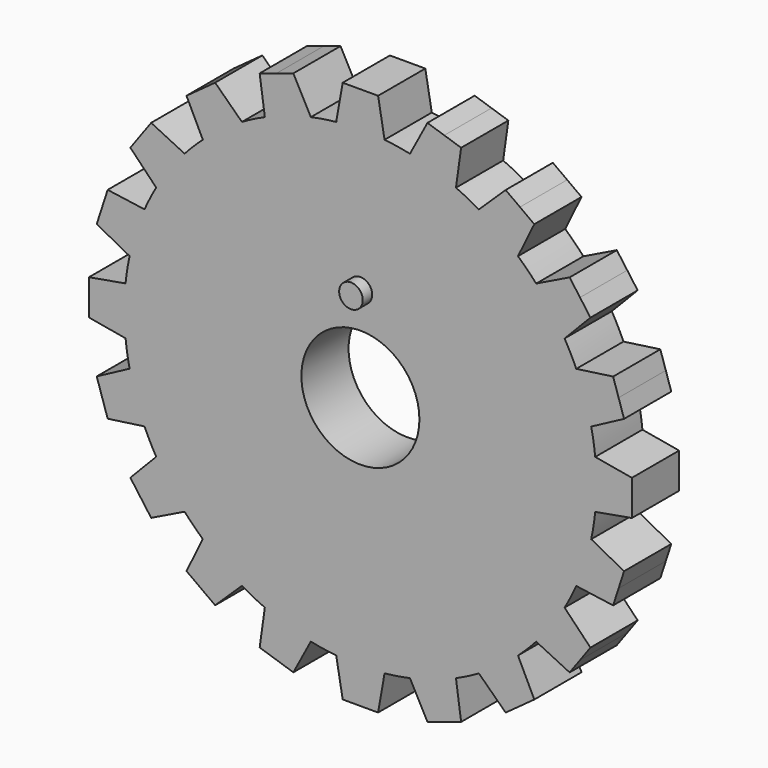
from build123d import *

# Parameters (mm, degrees)
F0_R     = 5
F1_DEPTH = 5
F2_R     = 1
F3_DEPTH = 1


with BuildPart() as f1:
    # F0 (on Front) → F1 (new body)
    with BuildSketch(Plane.XZ):
        with BuildLine():
            ThreePointArc((19.894917, -2.04751), (19.973712, -1.025102), (20, 0))
            ThreePointArc((20, 0), (19.973712, 1.025102), (19.894917, 2.04751))
            ThreePointArc((19.894917, 2.04751), (19.753767, 3.128689), (19.553905, 4.20057))
            ThreePointArc((19.553905, 4.20057), (19.02113, 6.18034), (18.288475, 8.095165))
            ThreePointArc((18.288475, 8.095165), (17.82013, 9.07981), (17.298822, 10.037468))
            ThreePointArc((17.298822, 10.037468), (16.18034, 11.755705), (14.891829, 13.350409))
            ThreePointArc((14.891829, 13.350409), (14.142136, 14.142136), (13.350409, 14.891829))
            ThreePointArc((13.350409, 14.891829), (11.755705, 16.18034), (10.037468, 17.298822))
            ThreePointArc((10.037468, 17.298822), (9.07981, 17.82013), (8.095165, 18.288475))
            ThreePointArc((8.095165, 18.288475), (6.18034, 19.02113), (4.20057, 19.553905))
            ThreePointArc((4.20057, 19.553905), (3.128689, 19.753767), (2.04751, 19.894917))
            ThreePointArc((2.04751, 19.894917), (0, 20), (-2.04751, 19.894917))
            ThreePointArc((-2.04751, 19.894917), (-3.128689, 19.753767), (-4.20057, 19.553905))
            ThreePointArc((-4.20057, 19.553905), (-6.18034, 19.02113), (-8.095165, 18.288475))
            ThreePointArc((-8.095165, 18.288475), (-9.07981, 17.82013), (-10.037468, 17.298822))
            ThreePointArc((-10.037468, 17.298822), (-11.755705, 16.18034), (-13.350409, 14.891829))
            ThreePointArc((-13.350409, 14.891829), (-14.142136, 14.142136), (-14.891829, 13.350409))
            ThreePointArc((-14.891829, 13.350409), (-16.18034, 11.755705), (-17.298822, 10.037468))
            ThreePointArc((-17.298822, 10.037468), (-17.82013, 9.07981), (-18.288475, 8.095165))
            ThreePointArc((-18.288475, 8.095165), (-19.02113, 6.18034), (-19.553905, 4.20057))
            ThreePointArc((-19.553905, 4.20057), (-19.753767, 3.128689), (-19.894917, 2.04751))
            ThreePointArc((-19.894917, 2.04751), (-20, 0), (-19.894917, -2.04751))
            ThreePointArc((-19.894917, -2.04751), (-19.753767, -3.128689), (-19.553905, -4.20057))
            ThreePointArc((-19.553905, -4.20057), (-19.02113, -6.18034), (-18.288475, -8.095165))
            ThreePointArc((-18.288475, -8.095165), (-17.82013, -9.07981), (-17.298822, -10.037468))
            ThreePointArc((-17.298822, -10.037468), (-16.18034, -11.755705), (-14.891829, -13.350409))
            ThreePointArc((-14.891829, -13.350409), (-14.142136, -14.142136), (-13.350409, -14.891829))
            ThreePointArc((-13.350409, -14.891829), (-11.755705, -16.18034), (-10.037468, -17.298822))
            ThreePointArc((-10.037468, -17.298822), (-9.07981, -17.82013), (-8.095165, -18.288475))
            ThreePointArc((-8.095165, -18.288475), (-6.18034, -19.02113), (-4.20057, -19.553905))
            ThreePointArc((-4.20057, -19.553905), (-3.128689, -19.753767), (-2.04751, -19.894917))
            ThreePointArc((-2.04751, -19.894917), (0, -20), (2.04751, -19.894917))
            ThreePointArc((2.04751, -19.894917), (3.128689, -19.753767), (4.20057, -19.553905))
            ThreePointArc((4.20057, -19.553905), (6.18034, -19.02113), (8.095165, -18.288475))
            ThreePointArc((8.095165, -18.288475), (9.07981, -17.82013), (10.037468, -17.298822))
            ThreePointArc((10.037468, -17.298822), (11.755705, -16.18034), (13.350409, -14.891829))
            ThreePointArc((13.350409, -14.891829), (14.142136, -14.142136), (14.891829, -13.350409))
            ThreePointArc((14.891829, -13.350409), (16.18034, -11.755705), (17.298822, -10.037468))
            ThreePointArc((17.298822, -10.037468), (17.82013, -9.07981), (18.288475, -8.095165))
            ThreePointArc((18.288475, -8.095165), (19.02113, -6.18034), (19.553905, -4.20057))
            ThreePointArc((19.553905, -4.20057), (19.753767, -3.128689), (19.894917, -2.04751))
        make_face()
        Circle(F0_R, mode=Mode.SUBTRACT)
        with BuildLine():
            ThreePointArc((19.894917, 2.04751), (19.973712, 1.025102), (20, 0))
            ThreePointArc((20, 0), (19.973712, -1.025102), (19.894917, -2.04751))
            Line((19.894917, -2.04751), (23, -1.5))
            Line((23, -1.5), (23, 0))
            Line((23, 0), (23, 1.5))
            Line((23, 1.5), (19.894917, 2.04751))
        make_face()
        with BuildLine():
            ThreePointArc((18.288475, 8.095165), (19.02113, 6.18034), (19.553905, 4.20057))
            Line((19.553905, 4.20057), (22.337825, 5.680806))
            Line((22.337825, 5.680806), (21.8743, 7.107391))
            Line((21.8743, 7.107391), (21.410774, 8.533976))
            Line((21.410774, 8.533976), (18.288475, 8.095165))
        make_face()
        with BuildLine():
            Line((22.337825, -5.680806), (19.553905, -4.20057))
            ThreePointArc((19.553905, -4.20057), (19.02113, -6.18034), (18.288475, -8.095165))
            Line((18.288475, -8.095165), (21.410774, -8.533976))
            Line((21.410774, -8.533976), (21.8743, -7.107391))
            Line((21.8743, -7.107391), (22.337825, -5.680806))
        make_face()
        with BuildLine():
            ThreePointArc((14.891829, 13.350409), (16.18034, 11.755705), (17.298822, 10.037468))
            Line((17.298822, 10.037468), (19.489069, 12.305535))
            Line((19.489069, 12.305535), (18.607391, 13.519061))
            Line((18.607391, 13.519061), (17.725713, 14.732586))
            Line((17.725713, 14.732586), (14.891829, 13.350409))
        make_face()
        with BuildLine():
            Line((19.489069, -12.305535), (17.298822, -10.037468))
            ThreePointArc((17.298822, -10.037468), (16.18034, -11.755705), (14.891829, -13.350409))
            Line((14.891829, -13.350409), (17.725713, -14.732586))
            Line((17.725713, -14.732586), (18.607391, -13.519061))
            Line((18.607391, -13.519061), (19.489069, -12.305535))
        make_face()
        with BuildLine():
            ThreePointArc((10.037468, 17.298822), (11.755705, 16.18034), (13.350409, 14.891829))
            Line((13.350409, 14.891829), (14.732586, 17.725713))
            Line((14.732586, 17.725713), (13.519061, 18.607391))
            Line((13.519061, 18.607391), (12.305535, 19.489069))
            Line((12.305535, 19.489069), (10.037468, 17.298822))
        make_face()
        with BuildLine():
            Line((14.732586, -17.725713), (13.350409, -14.891829))
            ThreePointArc((13.350409, -14.891829), (11.755705, -16.18034), (10.037468, -17.298822))
            Line((10.037468, -17.298822), (12.305535, -19.489069))
            Line((12.305535, -19.489069), (13.519061, -18.607391))
            Line((13.519061, -18.607391), (14.732586, -17.725713))
        make_face()
        with BuildLine():
            ThreePointArc((4.20057, 19.553905), (6.18034, 19.02113), (8.095165, 18.288475))
            Line((8.095165, 18.288475), (8.533976, 21.410774))
            Line((8.533976, 21.410774), (7.107391, 21.8743))
            Line((7.107391, 21.8743), (5.680806, 22.337825))
            Line((5.680806, 22.337825), (4.20057, 19.553905))
        make_face()
        with BuildLine():
            Line((8.533976, -21.410774), (8.095165, -18.288475))
            ThreePointArc((8.095165, -18.288475), (6.18034, -19.02113), (4.20057, -19.553905))
            Line((4.20057, -19.553905), (5.680806, -22.337825))
            Line((5.680806, -22.337825), (7.107391, -21.8743))
            Line((7.107391, -21.8743), (8.533976, -21.410774))
        make_face()
        with BuildLine():
            ThreePointArc((-2.04751, 19.894917), (0, 20), (2.04751, 19.894917))
            Line((2.04751, 19.894917), (1.5, 23))
            Line((1.5, 23), (0, 23))
            Line((0, 23), (-1.5, 23))
            Line((-1.5, 23), (-2.04751, 19.894917))
        make_face()
        with BuildLine():
            Line((1.5, -23), (2.04751, -19.894917))
            ThreePointArc((2.04751, -19.894917), (0, -20), (-2.04751, -19.894917))
            Line((-2.04751, -19.894917), (-1.5, -23))
            Line((-1.5, -23), (0, -23))
            Line((0, -23), (1.5, -23))
        make_face()
        with BuildLine():
            ThreePointArc((-8.095165, 18.288475), (-6.18034, 19.02113), (-4.20057, 19.553905))
            Line((-4.20057, 19.553905), (-5.680806, 22.337825))
            Line((-5.680806, 22.337825), (-7.107391, 21.8743))
            Line((-7.107391, 21.8743), (-8.533976, 21.410774))
            Line((-8.533976, 21.410774), (-8.095165, 18.288475))
        make_face()
        with BuildLine():
            Line((-5.680806, -22.337825), (-4.20057, -19.553905))
            ThreePointArc((-4.20057, -19.553905), (-6.18034, -19.02113), (-8.095165, -18.288475))
            Line((-8.095165, -18.288475), (-8.533976, -21.410774))
            Line((-8.533976, -21.410774), (-7.107391, -21.8743))
            Line((-7.107391, -21.8743), (-5.680806, -22.337825))
        make_face()
        with BuildLine():
            ThreePointArc((-13.350409, 14.891829), (-11.755705, 16.18034), (-10.037468, 17.298822))
            Line((-10.037468, 17.298822), (-12.305535, 19.489069))
            Line((-12.305535, 19.489069), (-13.519061, 18.607391))
            Line((-13.519061, 18.607391), (-14.732586, 17.725713))
            Line((-14.732586, 17.725713), (-13.350409, 14.891829))
        make_face()
        with BuildLine():
            Line((-12.305535, -19.489069), (-10.037468, -17.298822))
            ThreePointArc((-10.037468, -17.298822), (-11.755705, -16.18034), (-13.350409, -14.891829))
            Line((-13.350409, -14.891829), (-14.732586, -17.725713))
            Line((-14.732586, -17.725713), (-13.519061, -18.607391))
            Line((-13.519061, -18.607391), (-12.305535, -19.489069))
        make_face()
        with BuildLine():
            ThreePointArc((-17.298822, 10.037468), (-16.18034, 11.755705), (-14.891829, 13.350409))
            Line((-14.891829, 13.350409), (-17.725713, 14.732586))
            Line((-17.725713, 14.732586), (-18.607391, 13.519061))
            Line((-18.607391, 13.519061), (-19.489069, 12.305535))
            Line((-19.489069, 12.305535), (-17.298822, 10.037468))
        make_face()
        with BuildLine():
            Line((-17.725713, -14.732586), (-14.891829, -13.350409))
            ThreePointArc((-14.891829, -13.350409), (-16.18034, -11.755705), (-17.298822, -10.037468))
            Line((-17.298822, -10.037468), (-19.489069, -12.305535))
            Line((-19.489069, -12.305535), (-18.607391, -13.519061))
            Line((-18.607391, -13.519061), (-17.725713, -14.732586))
        make_face()
        with BuildLine():
            ThreePointArc((-19.553905, 4.20057), (-19.02113, 6.18034), (-18.288475, 8.095165))
            Line((-18.288475, 8.095165), (-21.410774, 8.533976))
            Line((-21.410774, 8.533976), (-21.8743, 7.107391))
            Line((-21.8743, 7.107391), (-22.337825, 5.680806))
            Line((-22.337825, 5.680806), (-19.553905, 4.20057))
        make_face()
        with BuildLine():
            Line((-21.410774, -8.533976), (-18.288475, -8.095165))
            ThreePointArc((-18.288475, -8.095165), (-19.02113, -6.18034), (-19.553905, -4.20057))
            Line((-19.553905, -4.20057), (-22.337825, -5.680806))
            Line((-22.337825, -5.680806), (-21.8743, -7.107391))
            Line((-21.8743, -7.107391), (-21.410774, -8.533976))
        make_face()
        with BuildLine():
            ThreePointArc((-19.894917, -2.04751), (-20, 0), (-19.894917, 2.04751))
            Line((-19.894917, 2.04751), (-23, 1.5))
            Line((-23, 1.5), (-23, 0))
            Line((-23, 0), (-23, -1.5))
            Line((-23, -1.5), (-19.894917, -2.04751))
        make_face()
    extrude(amount=F1_DEPTH)

    # F2 (on face) → F3 (join)
    with BuildSketch(Plane.XZ.offset(5)):
        with Locations((0, 8)):
            Circle(F2_R)
    extrude(amount=F3_DEPTH)


solid = f1.part
